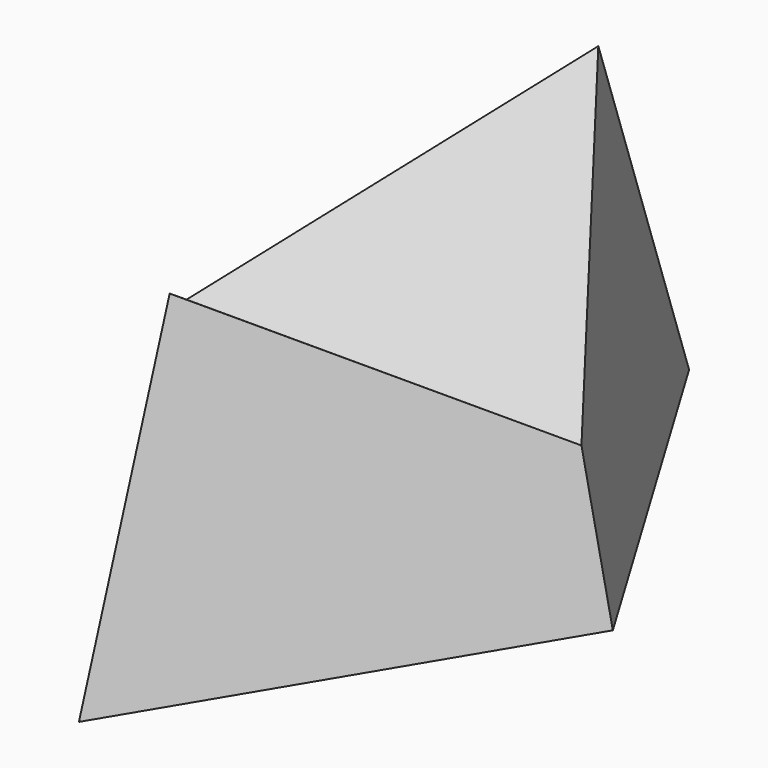
from build123d import *

# Parameters (mm, degrees)
F1_DEPTH      = 110.236
F1_TAPER      = 10
F3_DEPTH      = 76.454
F3_DEPTH_BACK = 91.44


with BuildPart() as f1:
    # F0 (on Top) → F1 (new body)
    with BuildSketch(Plane.XY):
        Polygon((0, 127), (-76.2, 0), (0, -127), (76.2, 0), align=None)
    extrude(amount=F1_DEPTH, taper=F1_TAPER)

    # F2 (on Right) → F3 (cut, two sides)
    with BuildSketch(Plane.YZ) as f3_sk:
        Polygon((0, 50.8), (89.2201333241, 110.236), (-89.2201333241, 110.236), align=None)
    extrude(amount=-F3_DEPTH, mode=Mode.SUBTRACT)
    extrude(f3_sk.sketch, amount=F3_DEPTH_BACK, mode=Mode.SUBTRACT)


solid = f1.part
